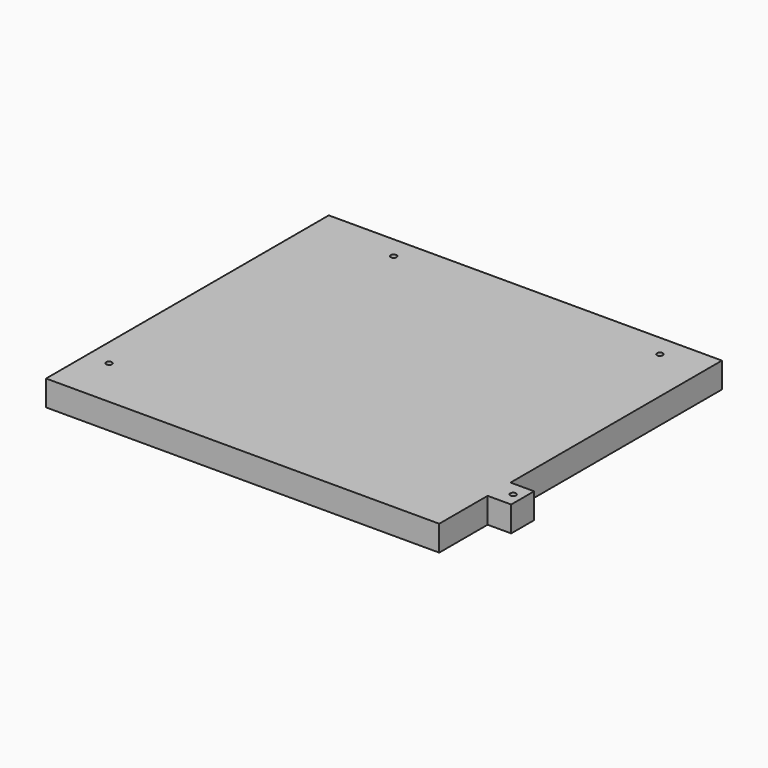
from build123d import *

# Parameters (mm, degrees)
F0_R     = 9.109782
F0_W     = 74
F0_H     = 90
F1_DEPTH = 80


with BuildPart() as f1:
    # F0 (on Top) → F1 (new body)
    with BuildSketch(Plane.XY):
        Polygon((608.88648, 650.870509), (-626.11352, 650.870509), (-626.11352, -459.129491), (608.88648, -459.129491), (608.88648, -269.129491), (608.88648, -179.129491), align=None)
        with Locations((-556.11352, -299.129491)):
            Circle(F0_R, mode=Mode.SUBTRACT)
        with Locations((-366.11352, 580.870509)):
            Circle(F0_R, mode=Mode.SUBTRACT)
        with Locations((468.88648, 582.153797)):
            Circle(F0_R, mode=Mode.SUBTRACT)
        with Locations((645.88648, -224.129491)):
            Rectangle(F0_W, F0_H)
        with Locations((652.88648, -224.129491)):
            Circle(F0_R, mode=Mode.SUBTRACT)
    extrude(amount=F1_DEPTH)


solid = f1.part
